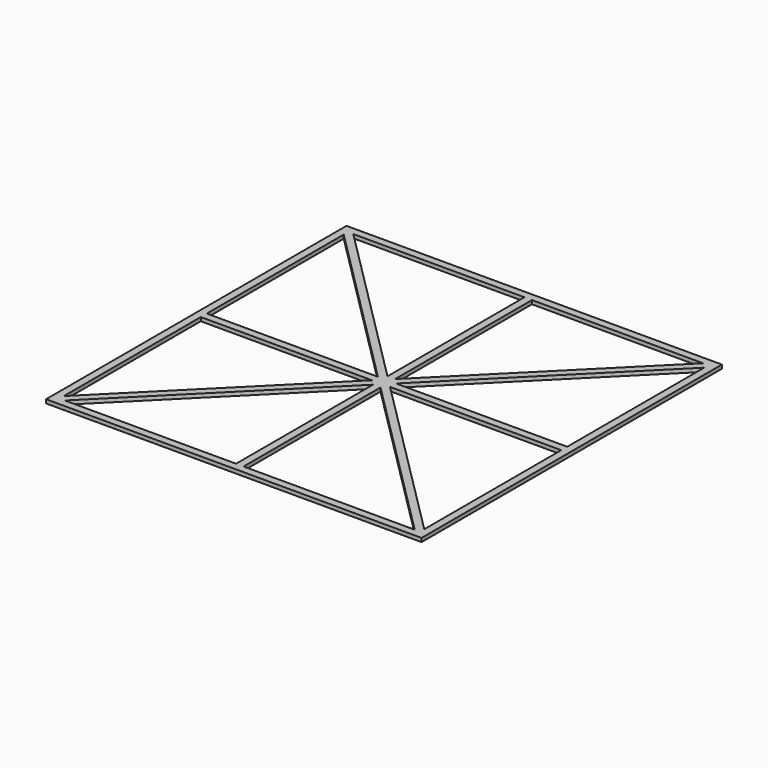
from build123d import *

# Parameters (mm, degrees)
F1_W     = 25.4
F1_H     = 25.4
F2_DEPTH = 0.254


with BuildPart() as f2:
    # F1 (on Top) → F2 (new body)
    with BuildSketch(Plane.XY):
        Rectangle(F1_W, F1_H)
        Polygon((-0.254, -12.192), (-11.83279, -12.192), (-0.254, -0.61321), align=None, mode=Mode.SUBTRACT)
        Polygon((-0.61321, -0.254), (-12.192, -11.83279), (-12.192, -0.254), align=None, mode=Mode.SUBTRACT)
        Polygon((11.83279, -12.192), (0.254, -12.192), (0.254, -0.61321), align=None, mode=Mode.SUBTRACT)
        Polygon((12.192, -0.254), (12.192, -11.83279), (0.61321, -0.254), align=None, mode=Mode.SUBTRACT)
        Polygon((-12.192, 0.254), (-12.192, 11.83279), (-0.61321, 0.254), align=None, mode=Mode.SUBTRACT)
        Polygon((-0.254, 0.61321), (-11.83279, 12.192), (-0.254, 12.192), align=None, mode=Mode.SUBTRACT)
        Polygon((0.61321, 0.254), (12.192, 11.83279), (12.192, 0.254), align=None, mode=Mode.SUBTRACT)
        Polygon((0.254, 0.61321), (0.254, 12.192), (11.83279, 12.192), align=None, mode=Mode.SUBTRACT)
    extrude(amount=F2_DEPTH)


solid = f2.part
